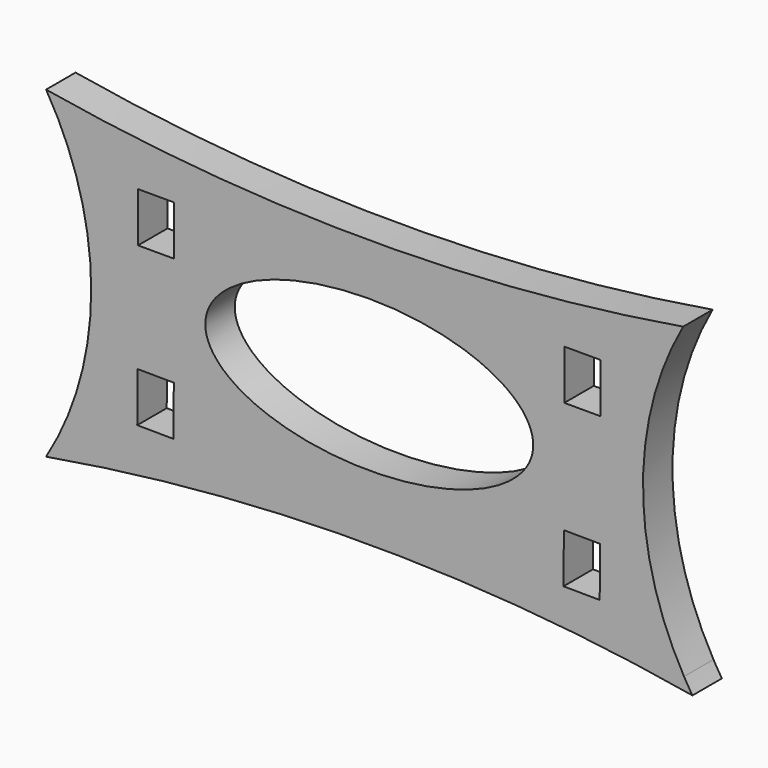
from build123d import *

# Parameters (mm, degrees)
F1_DEPTH = 4.3434
F2_W     = 4.2672
F2_H     = 5.842
F3_DEPTH = 4.3444


with BuildPart() as f1:
    # F0 (on Front) → F1 (new body)
    with BuildSketch(Plane.XZ):
        with BuildLine():
            ThreePointArc((-28.517275, 9.813636), (-23.19934, -9.236364), (-28.517275, -28.286364))
            ThreePointArc((-28.517275, -28.286364), (9.582725, -25.014032), (47.682725, -28.286364))
            ThreePointArc((47.682725, -28.286364), (47.175319, -27.472875), (46.68929, -26.646437))
            ThreePointArc((46.68929, -26.646437), (41.853619, -8.523275), (46.583884, 9.627685))
            ThreePointArc((46.583884, 9.627685), (9.025493, 6.565838), (-28.517275, 9.813636))
        make_face()
        with BuildLine():
            add(Edge.make_bspline(
                [(28.912321, -8.4164), (28.912321, 7.028438), (-0.082073, -0.693981), (-29.076467, -8.4164), (-0.082073, -16.13882), (28.912321, -23.861239), (28.912321, -8.4164)],
                knots=[0, 0, 0, 2.094395, 2.094395, 4.18879, 4.18879, 6.283185, 6.283185, 6.283185], degree=2, weights=[1, 0.5, 1, 0.5, 1, 0.5, 1]))
        make_face(mode=Mode.SUBTRACT)
    extrude(amount=F1_DEPTH)

    # F2 (on face) → F3 (cut, through all)
    with BuildSketch(Plane.XZ.offset(4.3434)):
        with Locations((-15.544188, 0.087503)):
            Rectangle(F2_W, F2_H)
        with Locations((34.709638, 0.087503)):
            Rectangle(F2_W, F2_H)
        Polygon((-13.459191, -15.712928), (-17.72627, -15.680721), (-17.770362, -21.522555), (-13.503283, -21.554761), align=None)
        Polygon((36.749112, -21.934046), (36.793203, -16.092212), (32.526125, -16.060006), (32.482033, -21.90184), align=None)
    extrude(amount=-F3_DEPTH, mode=Mode.SUBTRACT)


solid = f1.part
